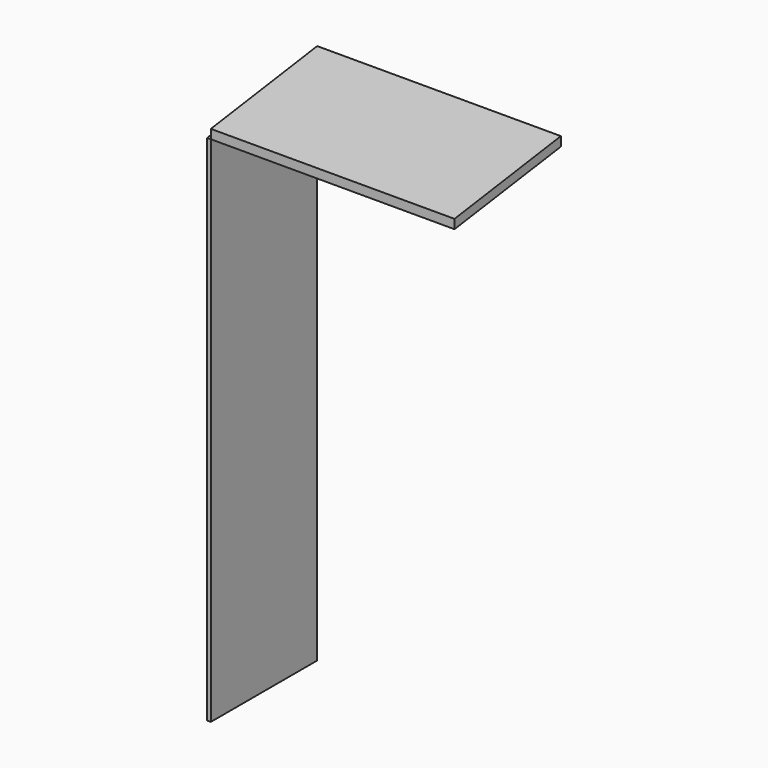
from build123d import *

# Parameters (mm, degrees)
F0_W     = 1.5875
F0_H     = 228.6
F1_DEPTH = 57.15
F3_DEPTH = 1.5875
F5_DEPTH = 104.775


with BuildPart() as f1:
    # F0 (on Front) → F1 (new body)
    with BuildSketch(Plane.XZ):
        with Locations((-42.70866, 66.94439)):
            Rectangle(F0_W, F0_H)
    extrude(amount=F1_DEPTH)

    # F2 (on face) → F3 (cut, through all)
    with BuildSketch(Plane(origin=(-43.50241, 0, 0), x_dir=(0, -1, 0), z_dir=(-1, 0, 0))):
        Polygon((57.15, 181.24439), (0, 181.24439), (57.15, 173.212482), align=None)
    extrude(amount=-F3_DEPTH, mode=Mode.SUBTRACT)


with BuildPart() as f5:
    # F4 (on face) → F5 (new body)
    with BuildSketch(Plane.YZ.offset(-41.91491)):
        Polygon((-57.15, 177.142054), (-57.15, 173.212482), (0, 181.24439), (0, 185.237545), align=None)
    extrude(amount=F5_DEPTH)


solid = Compound([f1.part, f5.part])
